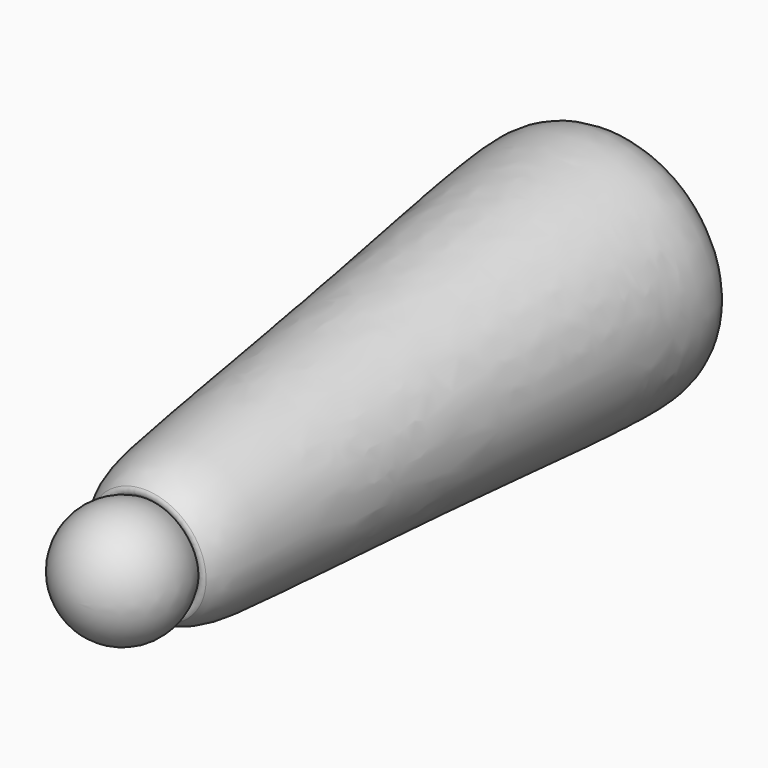
from build123d import *

# Parameters (mm, degrees)
FILLET069_R             = 6
FILLET070_R             = 3
BODY043_PLACEMENT_ANGLE = 3


with BuildPart() as part:
    # Sketch145 → Revolution075 (revolve)
    with BuildSketch(Plane.XY):
        with BuildLine():
            Line((0, -29.245996), (0, -395.969613))
            add(Edge.make_bspline(
                [(0, -29.245996), (71.97521, -29.245996), (74.761139, -71.14093), (60.18763, -188.319479), (45.659971, -358.12794), (39.993144, -395.969613), (0, -395.969613)],
                knots=[0, 0, 0, 0, 0.25, 0.5, 0.75, 1, 1, 1, 1], degree=3))
        make_face()
    revolve(axis=Axis((0, 0, 0), (0, 1, 0)))

    # Sketch146 → Groove068 (revolve, cut)
    with BuildSketch(Plane.XY):
        with BuildLine():
            Line((0, 60), (0, -60))
            ThreePointArc((0, -60), (60, 0), (0, 60))
        make_face()
    revolve(axis=Axis((0, 0, 0), (0, 1, 0)), mode=Mode.SUBTRACT)

    # Fillet069
    fillet069_edges = [part.edges().sort_by_distance(p)[0] for p in [
        (-48.746872, -34.982031, 0),
    ]]
    fillet(fillet069_edges, radius=FILLET069_R)

    # Sketch147 → Groove069 (revolve, cut)
    with BuildSketch(Plane.XY):
        with BuildLine():
            Line((0, -368), (0, -438))
            ThreePointArc((0, -438), (35, -403), (0, -368))
        make_face()
    revolve(axis=Axis((0, 0, 0), (0, 1, 0)), mode=Mode.SUBTRACT)

    # Fillet070
    fillet070_edges = [part.edges().sort_by_distance(p)[0] for p in [
        (-31.536984, -387.820454, 0),
    ]]
    fillet(fillet070_edges, radius=FILLET070_R)

    # Sketch147 → Revolution076 (revolve)
    with BuildSketch(Plane.XY):
        with BuildLine():
            Line((0, -368), (0, -438))
            ThreePointArc((0, -438), (35, -403), (0, -368))
        make_face()
    revolve(axis=Axis((0, 0, 0), (0, 1, 0)))


with BuildPart() as part_1:
    # Body043 placement: moved
    add(part.part.moved(Location((75, 899.018312, 0.388141))).rotate(Axis((75, 899.018312, 0.388141), (1, 0, 0)), BODY043_PLACEMENT_ANGLE))


solid = part_1.part
